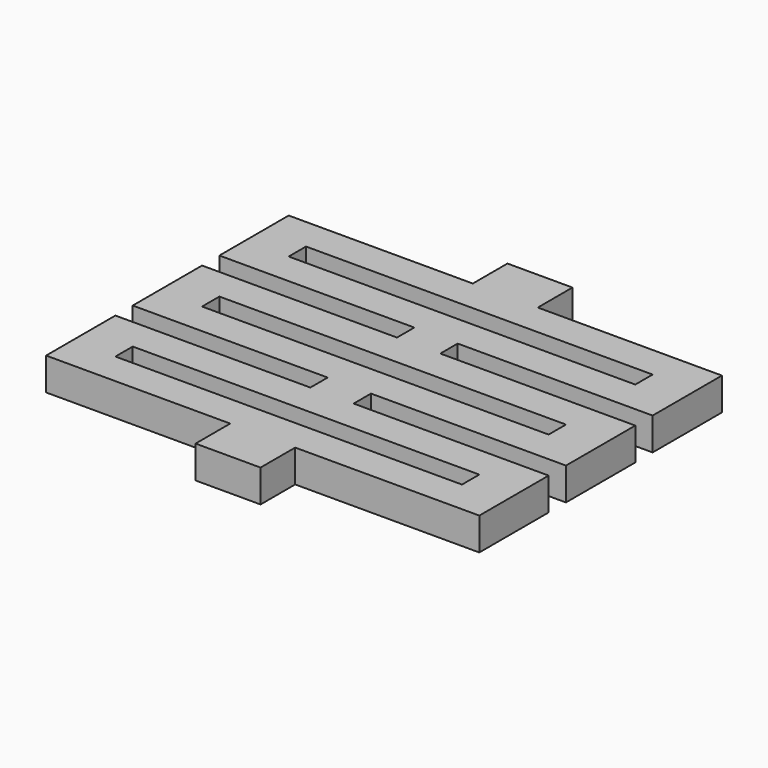
from build123d import *

# Parameters (mm, degrees)
F0_W     = 4
F0_H     = 2
F1_DEPTH = 3


with BuildPart() as f1:
    # F0 (on Top) → F1 (new body)
    with BuildSketch(Plane.XY):
        Polygon((0, 0), (-3, 0), (-3, -4), (0, -4), (3, -4), (3, 0), align=None)
        Polygon((0, -4), (-3, -4), (-20, -4), (-20, -7), (-16, -7), (0, -7), (16, -7), (20, -7), (20, -4), (3, -4), align=None)
        with Locations((-18, -8)):
            Rectangle(F0_W, F0_H)
        Polygon((-16, -9), (-20, -9), (-20, -12), (-2, -12), (0, -12), (2, -12), (20, -12), (20, -9), (16, -9), (0, -9), align=None)
        with Locations((18, -8)):
            Rectangle(F0_W, F0_H)
        Polygon((0, -12), (-2, -12), (-2, -14), (0, -14), (2, -14), (2, -12), align=None)
        Polygon((0, -14), (-2, -14), (-20, -14), (-20, -17), (-16, -17), (0, -17), (16, -17), (20, -17), (20, -14), (2, -14), align=None)
        with Locations((-18, -18)):
            Rectangle(F0_W, F0_H)
        Polygon((-16, -19), (-20, -19), (-20, -22), (-2, -22), (0, -22), (2, -22), (20, -22), (20, -19), (16, -19), (0, -19), align=None)
        with Locations((18, -18)):
            Rectangle(F0_W, F0_H)
        Polygon((0, -22), (-2, -22), (-2, -24), (0, -24), (2, -24), (2, -22), align=None)
        Polygon((0, -24), (-2, -24), (-20, -24), (-20, -27), (-16, -27), (0, -27), (16, -27), (20, -27), (20, -24), (2, -24), align=None)
        with Locations((-18, -28)):
            Rectangle(F0_W, F0_H)
        Polygon((-16, -29), (-20, -29), (-20, -32), (-3, -32), (0, -32), (3, -32), (20, -32), (20, -29), (16, -29), (0, -29), align=None)
        with Locations((18, -28)):
            Rectangle(F0_W, F0_H)
        Polygon((0, -32), (-3, -32), (-3, -36), (0, -36), (3, -36), (3, -32), align=None)
    extrude(amount=F1_DEPTH)


solid = f1.part
